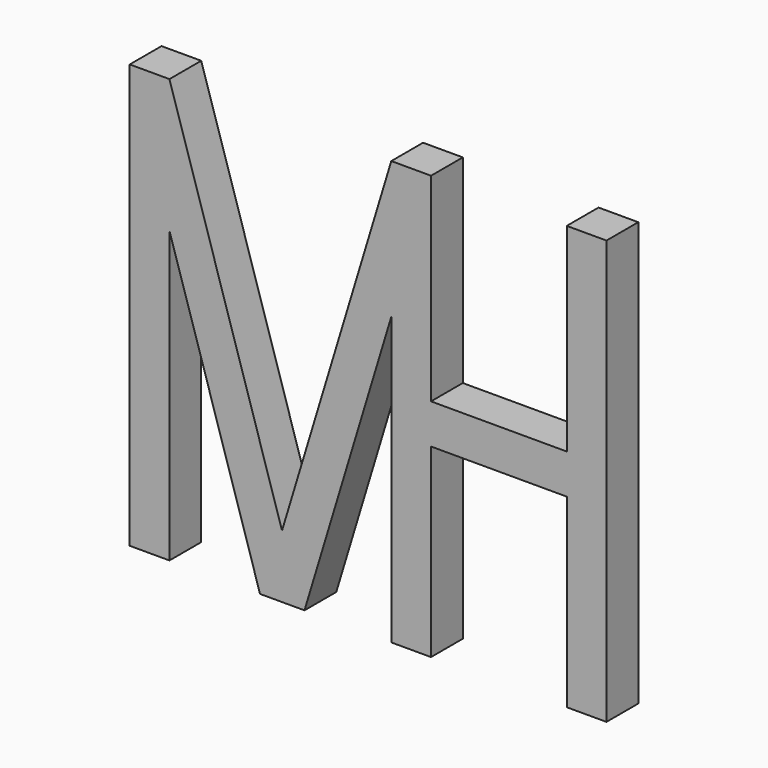
from build123d import *

# Parameters (mm, degrees)
F1_DEPTH = 9.525


with BuildPart() as f1:
    # F0 (on Front) → F1 (new body)
    with BuildSketch(Plane.XZ):
        Polygon((0, 101.6), (0, 0), (9.525, 0), (9.525, 69.612898), (31.239115, 0), (41.898574, 0), (62.70625, 68.728386), (62.70625, 0), (72.23125, 0), (72.23125, 44.45), (104.775, 44.45), (104.775, 0), (114.3, 0), (114.3, 101.6), (104.775, 101.6), (104.775, 53.975), (72.23125, 53.975), (72.23125, 101.6), (62.70625, 101.6), (36.5125, 15.08125), (9.525, 101.6), align=None)
    extrude(amount=F1_DEPTH)


solid = f1.part
